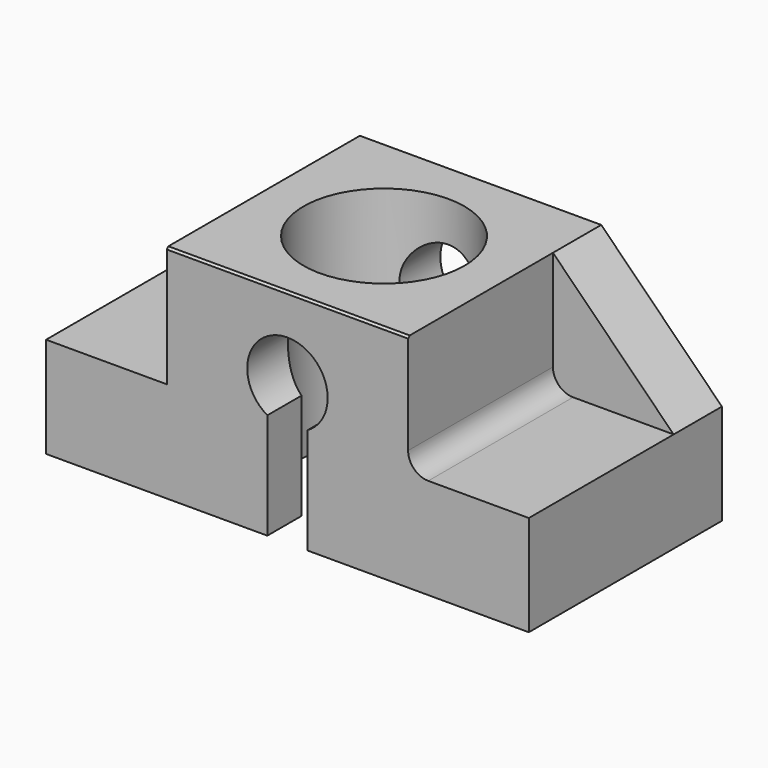
from build123d import *

# Parameters (mm, degrees)
F0_W      = 1200
F0_H      = 600
F1_DEPTH  = 250
F2_W      = 600
F2_H      = 600
F3_DEPTH  = 300
F4_R      = 200
F5_DEPTH  = 550.001
F6_W      = 300
F6_H      = 150
F7_DEPTH  = 300
F8_W      = 300
F8_H      = 150
F9_DEPTH  = 300
F11_DEPTH = 600.001
F13_DEPTH = 150.0010001
F15_DEPTH = 150.0010001
F16_R     = 50
F17_SIZE2 = 5
F17_SIZE  = 5


with BuildPart() as f1:
    # F0 (on Top) → F1 (new body)
    with BuildSketch(Plane.XY):
        Rectangle(F0_W, F0_H)
    extrude(amount=F1_DEPTH)

    # F2 (on face) → F3 (join)
    with BuildSketch(Plane.XY.offset(250)):
        Rectangle(F2_W, F2_H)
    extrude(amount=F3_DEPTH)

    # F4 (on face) → F5 (cut, through all)
    with BuildSketch(Plane.XY.offset(550)):
        Circle(F4_R)
    extrude(amount=-F5_DEPTH, mode=Mode.SUBTRACT)

    # F6 (on face) → F7 (join)
    with BuildSketch(Plane.XY.offset(250)):
        with Locations((450, 225)):
            Rectangle(F6_W, F6_H)
    extrude(amount=F7_DEPTH)

    # F8 (on face) → F9 (join)
    with BuildSketch(Plane.XY.offset(250)):
        with Locations((-450, 225)):
            Rectangle(F8_W, F8_H)
    extrude(amount=F9_DEPTH)

    # F10 (on face) → F11 (cut, through all)
    with BuildSketch(Plane.XZ.offset(300)):
        with BuildLine():
            ThreePointArc((50, 263.3974596216), (86.6025403784, 300), (100, 350))
            ThreePointArc((100, 350), (-50, 436.6025403784), (-50, 263.3974596216))
            ThreePointArc((-50, 263.3974596216), (0, 250), (50, 263.3974596216))
        make_face()
        with BuildLine():
            ThreePointArc((50, 263.3974596216), (0, 250), (-50, 263.3974596216))
            Line((-50, 263.3974596216), (-50, 0))
            Line((-50, 0), (50, 0))
            Line((50, 0), (50, 263.3974596216))
        make_face()
    extrude(amount=-F11_DEPTH, mode=Mode.SUBTRACT)

    # F12 (on face) → F13 (cut, through all)
    with BuildSketch(Plane.XZ.offset(-150)):
        Polygon((600, 550), (300, 550), (600, 250), align=None)
    extrude(amount=-F13_DEPTH, mode=Mode.SUBTRACT)

    # F14 (on face) → F15 (cut, through all)
    with BuildSketch(Plane.XZ.offset(-150)):
        Polygon((-600, 250), (-300, 550), (-600, 550), align=None)
    extrude(amount=-F15_DEPTH, mode=Mode.SUBTRACT)

    # F16
    f16_edges = [f1.edges().sort_by_distance(p)[0] for p in [
        (300, -75, 250),
    ]]
    fillet(f16_edges, radius=F16_R)

    # F17
    f17_edges = [f1.edges().sort_by_distance(p)[0] for p in [
        (0, -300, 550),
    ]]
    chamfer(f17_edges, length=F17_SIZE, length2=F17_SIZE2)


solid = f1.part
